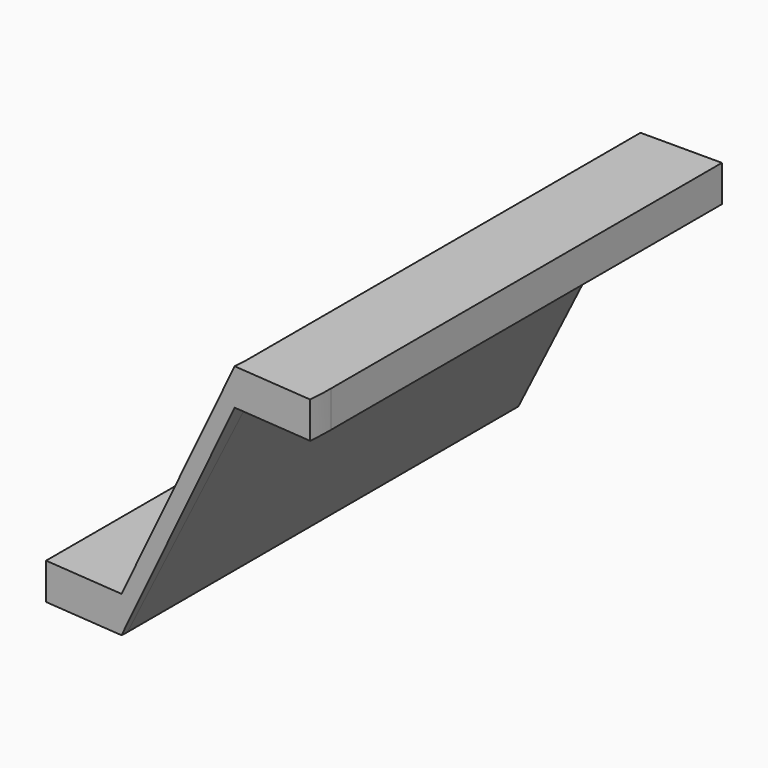
from build123d import *

# Parameters (mm, degrees)
F2_W     = 10
F2_H     = 4.472136
F3_W     = 10
F3_H     = 4.472136
F4_W     = 10
F4_H     = 4.472136
F8_ANGLE = -5


with BuildPart() as f5:
    # F4 (on offset) → F5 section 0
    with BuildSketch(Plane.XZ.offset(-30)):
        Polygon((-10, 30), (-10, 34.472136), (-13.577709, 27.316718), (-21.422291, 11.627553), (-25, 4.472136), (-25, 0), align=None)
    # F3 (on Front) → F5 section 1
    with BuildSketch(Plane.XZ):
        Polygon((-10, 30), (-10, 34.472136), (-12.398913, 29.674309), (-13.577709, 27.316718), (-21.422291, 11.627553), (-22.601087, 9.269963), (-25, 4.472136), (-25, 0), align=None)
    # F2 (on offset) → F5 section 2
    with BuildSketch(Plane.XZ.offset(30)):
        Polygon((-10, 30), (-10, 34.472136), (-11.284195, 31.903745), (-12.236068, 30), (-22.763932, 8.944272), (-23.715805, 7.040526), (-25, 4.472136), (-25, 0), align=None)
    loft()

    # F2 (on offset) → F6 section 0
    with BuildSketch(Plane.XZ.offset(30)):
        with Locations((-5, 32.236068)):
            Rectangle(F2_W, F2_H)
    # F3 (on Front) → F6 section 1
    with BuildSketch(Plane.XZ):
        with Locations((-5, 32.236068)):
            Rectangle(F3_W, F3_H)
    # F4 (on offset) → F6 section 2
    with BuildSketch(Plane.XZ.offset(-30)):
        with Locations((-5, 32.236068)):
            Rectangle(F4_W, F4_H)
    loft()

    # F2 (on offset) → F7 section 0
    with BuildSketch(Plane.XZ.offset(30)):
        with Locations((-30, 2.236068)):
            Rectangle(F2_W, F2_H)
    # F3 (on Front) → F7 section 1
    with BuildSketch(Plane.XZ):
        with Locations((-30, 2.236068)):
            Rectangle(F3_W, F3_H)
    # F4 (on offset) → F7 section 2
    with BuildSketch(Plane.XZ.offset(-30)):
        with Locations((-30, 2.236068)):
            Rectangle(F4_W, F4_H)
    loft()

    # F2 (on offset) → F8 (revolve)
    with BuildSketch(Plane.XZ.offset(30)):
        Polygon((-10, 30), (-10, 34.472136), (-11.284195, 31.903745), (-12.236068, 30), (-22.763932, 8.944272), (-23.715805, 7.040526), (-25, 4.472136), (-25, 0), align=None)
        with Locations((-5, 32.236068)):
            Rectangle(F2_W, F2_H)
        with Locations((-30, 2.236068)):
            Rectangle(F2_W, F2_H)
    revolve(axis=Axis((-35, -30, 2.236068), (0, 0, 1)), revolution_arc=F8_ANGLE)


solid = f5.part
